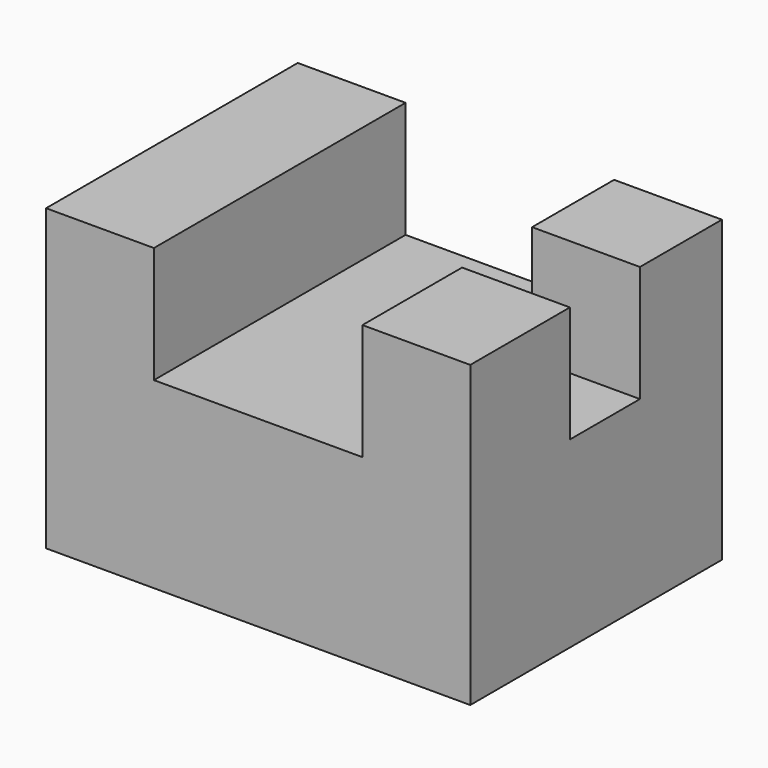
from build123d import *

# Parameters (mm, degrees)
F1_DEPTH = 50.8
F2_W     = 17.4146303907
F2_H     = 14.1386073083
F3_DEPTH = 18.779527396


with BuildPart() as f1:
    # F0 (on Front) → F1 (new body)
    with BuildSketch(Plane.XZ):
        Polygon((0, 48.3591668308), (0, 0), (68.5028927401, 0), (68.5028927401, 48.3591668308), (51.0882623494, 48.3591668308), (51.0882623494, 29.5796394348), (17.4146303907, 29.5796394348), (17.4146303907, 48.3591668308), align=None)
    extrude(amount=F1_DEPTH)

    # F2 (on face) → F3 (cut, through all)
    with BuildSketch(Plane.XY.offset(48.3591668308)):
        with Locations((59.7955775447, -23.6191870645)):
            Rectangle(F2_W, F2_H)
    extrude(amount=-F3_DEPTH, mode=Mode.SUBTRACT)


solid = f1.part
